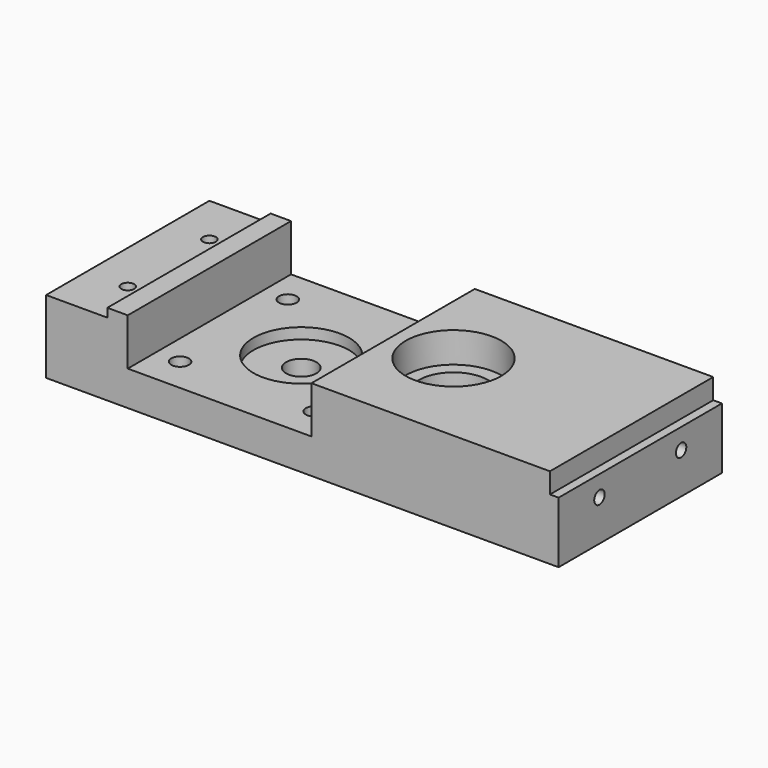
from build123d import *

# Parameters (mm, degrees)
SKETCH_W        = 116
SKETCH_H        = 47
PAD_DEPTH       = 18.8
SKETCH001_R     = 4
POCKET_DEPTH    = 18.8
SKETCH029_W     = 47
SKETCH029_H     = 14.1
PAD015_DEPTH    = 2
SKETCH031_R     = 2.030946
POCKET012_DEPTH = 18.8
SKETCH032_W     = 42.3
SKETCH032_H     = 47
POCKET013_DEPTH = 10.8
SKETCH033_R     = 11
POCKET014_DEPTH = 2.5
SKETCH034_R     = 3.5
POCKET015_DEPTH = 18.801
SKETCH035_W     = 14.1
SKETCH035_H     = 47
POCKET016_DEPTH = 2
SKETCH038_R     = 11
POCKET017_DEPTH = 7
SKETCH039_R     = 11
POCKET018_DEPTH = 7
SKETCH040_R     = 8
POCKET019_DEPTH = 11.801
SKETCH072_R     = 1.5
POCKET027_DEPTH = 18.801
CHAMFER002_SIZE = 2.5
SKETCH075_R     = 1.5
POCKET030_DEPTH = 19.2


with BuildPart() as part:
    # Sketch → Pad (new body)
    with BuildSketch(Plane.XY):
        with Locations((-17, 0)):
            Rectangle(SKETCH_W, SKETCH_H)
    extrude(amount=PAD_DEPTH)

    # Sketch001 (on Face6 of Pad) → Pocket (cut)
    with BuildSketch(Plane.XY.offset(18.8)):
        Circle(SKETCH001_R)
    extrude(amount=-POCKET_DEPTH, mode=Mode.SUBTRACT)

    # Sketch029 (on Face2 of Pad) → Pad015 (join)
    with BuildSketch(Plane.YZ.offset(41)):
        with Locations((0, 7.05)):
            Rectangle(SKETCH029_W, SKETCH029_H)
    extrude(amount=PAD015_DEPTH)

    # Sketch031 (on Face4 of Pad015) → Pocket012 (cut)
    with BuildSketch(Plane(origin=(0, 0, 0), x_dir=(1, 0, 0), z_dir=(0, 0, -1))):
        with Locations((-50.55, 15.5)):
            Circle(SKETCH031_R)
        with Locations((-19.55, 15.5)):
            Circle(SKETCH031_R)
        with Locations((-50.55, -15.5)):
            Circle(SKETCH031_R)
        with Locations((-19.55, -15.5)):
            Circle(SKETCH031_R)
    extrude(amount=-POCKET012_DEPTH, mode=Mode.SUBTRACT)

    # Sketch032 (on Face5 of Pocket012) → Pocket013 (cut)
    with BuildSketch(Plane.XY.offset(18.8)):
        with Locations((-35.05, 0)):
            Rectangle(SKETCH032_W, SKETCH032_H)
    extrude(amount=-POCKET013_DEPTH, mode=Mode.SUBTRACT)

    # Sketch033 (on Face7 of Pocket013) → Pocket014 (cut)
    with BuildSketch(Plane.XY.offset(8)):
        with Locations((-35.05, 0)):
            Circle(SKETCH033_R)
    extrude(amount=-POCKET014_DEPTH, mode=Mode.SUBTRACT)

    # Sketch034 (on Face4 of Pocket014) → Pocket015 (cut, through all)
    with BuildSketch(Plane(origin=(0, 0, 0), x_dir=(1, 0, 0), z_dir=(0, 0, -1))):
        with Locations((-35.05, 0)):
            Circle(SKETCH034_R)
    extrude(amount=-POCKET015_DEPTH, mode=Mode.SUBTRACT)

    # Sketch035 (on Face5 of Pocket015) → Pocket016 (cut)
    with BuildSketch(Plane.XY.offset(18.8)):
        with Locations((-67.95, 0)):
            Rectangle(SKETCH035_W, SKETCH035_H)
    extrude(amount=-POCKET016_DEPTH, mode=Mode.SUBTRACT)

    # Sketch038 (on Face15 of Pocket016) → Pocket017 (cut)
    with BuildSketch(Plane.XY.offset(18.8)):
        Circle(SKETCH038_R)
    extrude(amount=-POCKET017_DEPTH, mode=Mode.SUBTRACT)

    # Sketch039 (on Face2 of Pocket017) → Pocket018 (cut)
    with BuildSketch(Plane(origin=(0, 0, 0), x_dir=(1, 0, 0), z_dir=(0, 0, -1))):
        Circle(SKETCH039_R)
    extrude(amount=-POCKET018_DEPTH, mode=Mode.SUBTRACT)

    # Sketch040 (on Face29 of Pocket018) → Pocket019 (cut, through all)
    with BuildSketch(Plane.XY.offset(11.8)):
        Circle(SKETCH040_R)
    extrude(amount=-POCKET019_DEPTH, mode=Mode.SUBTRACT)

    # Sketch072 (on Face2 of Pocket019) → Pocket027 (cut, through all)
    with BuildSketch(Plane(origin=(0, 0, 0), x_dir=(1, 0, 0), z_dir=(0, 0, -1))):
        with Locations((-65.6, 11.75)):
            Circle(SKETCH072_R)
        with Locations((-65.6, -11.75)):
            Circle(SKETCH072_R)
    extrude(amount=-POCKET027_DEPTH, mode=Mode.SUBTRACT)

    # Chamfer002
    chamfer002_edges = [part.edges().sort_by_distance(p)[0] for p in [
        (-67.1, -11.75, 0),
        (-67.1, 11.75, 0),
    ]]
    chamfer(chamfer002_edges, length=CHAMFER002_SIZE)

    # Sketch075 (on Face24 of Chamfer002) → Pocket030 (cut)
    with BuildSketch(Plane.YZ.offset(43)):
        with Locations((-11.75, 9.4)):
            Circle(SKETCH075_R)
        with Locations((11.75, 9.4)):
            Circle(SKETCH075_R)
    extrude(amount=-POCKET030_DEPTH, mode=Mode.SUBTRACT)


solid = part.part
